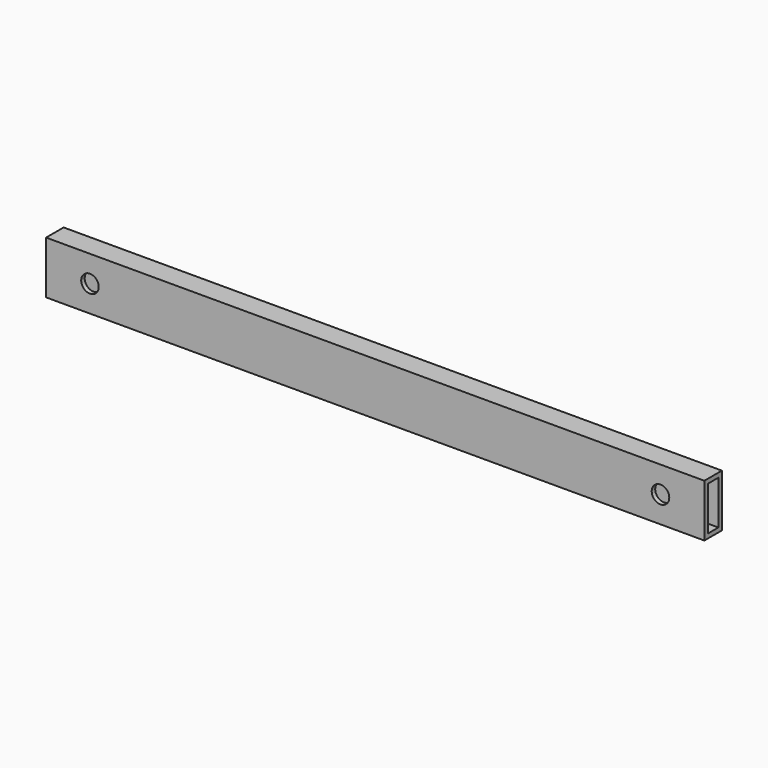
from build123d import *

# Parameters (mm, degrees)
F0_W     = 25
F0_H     = 60
F0_W_2   = 15
F0_H_2   = 50
F1_DEPTH = 375
F2_R     = 10
F3_DEPTH = 25.001


with BuildPart() as f1:
    # F0 (on Right) → F1 (new body, symmetric)
    with BuildSketch(Plane.YZ):
        Rectangle(F0_W, F0_H)
        Rectangle(F0_W_2, F0_H_2, mode=Mode.SUBTRACT)
    extrude(amount=F1_DEPTH, both=True)

    # F2 (on face) → F3 (cut, through all)
    with BuildSketch(Plane.XZ.offset(12.5)):
        with Locations((-325, 0)):
            Circle(F2_R)
        with Locations((325, 0)):
            Circle(F2_R)
    extrude(amount=-F3_DEPTH, mode=Mode.SUBTRACT)


solid = f1.part
